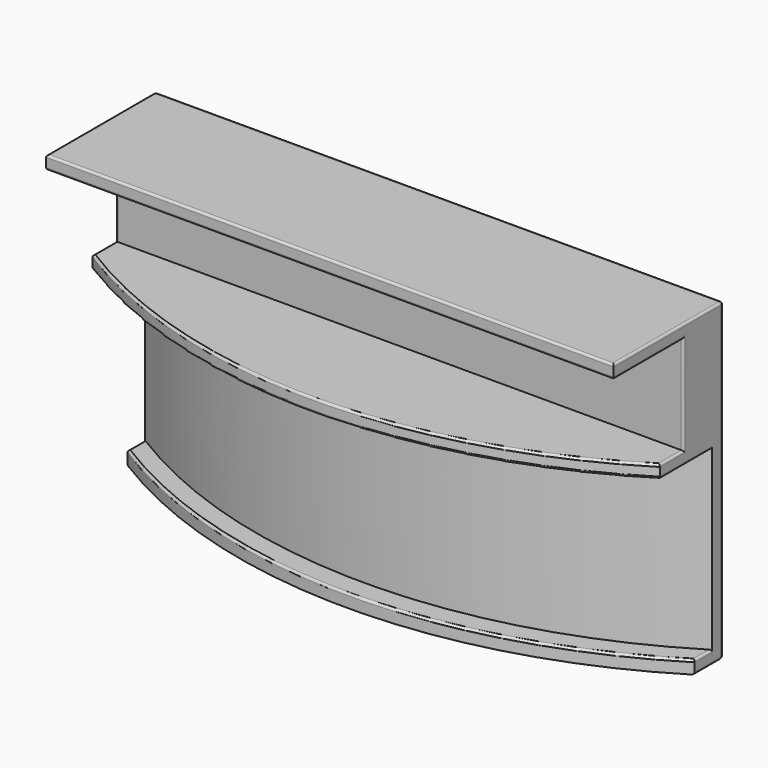
from build123d import *

# Parameters (mm, degrees)
BOX003_W      = 570
BOX003_H      = 100
BOX003_DEPTH  = 22.5
TUBE003_R     = 250
TUBE003_R_2   = 122.5
TUBE003_DEPTH = 37.5
TUBE002_R     = 250
TUBE002_R_2   = 122.5
TUBE002_DEPTH = 37.5
TUBE001_R     = 250
TUBE001_R_2   = 122.5
TUBE001_DEPTH = 40.5
BOX001_W      = 570
BOX001_H      = 100
BOX001_DEPTH  = 22.5
BOX_W         = 130
BOX_H         = 70
BOX_DEPTH     = 72
FILLET_R      = 1
FILLET001_R   = 0.5
FILLET002_R   = 0.5
FILLET003_R   = 0.5


with BuildPart() as sphere:
    # Sphere → Sphere (revolve)
    with BuildSketch(Plane(origin=(-0.01, -10.37, -8.39), x_dir=(1, 0, 0), z_dir=(0, -1, 0))):
        with BuildLine():
            ThreePointArc((0, -110), (110, 0), (0, 110))
            Line((0, 110), (0, -110))
        make_face()
    revolve(axis=Axis((-0.01, -10.37, -8.39), (0, 0, 1)))


with BuildPart() as box003:
    # Box003 → Box003 (new body)
    with BuildSketch(Plane(origin=(-285.31, -232.1, 44.4), x_dir=(1, 0, 0), z_dir=(0, 0, 1))):
        with Locations((285, 50)):
            Rectangle(BOX003_W, BOX003_H)
    extrude(amount=BOX003_DEPTH)


with BuildPart() as tube003:
    # Tube003 → Tube003 (new body)
    with BuildSketch(Plane(origin=(0, -15, 10), x_dir=(1, 0, 0), z_dir=(0, 0, 1))):
        Circle(TUBE003_R)
        Circle(TUBE003_R_2, mode=Mode.SUBTRACT)
    extrude(amount=TUBE003_DEPTH)


with BuildPart() as tube002:
    # Tube002 → Tube002 (new body)
    with BuildSketch(Plane(origin=(0, -5, -10), x_dir=(1, 0, 0), z_dir=(0, 0, 1))):
        Circle(TUBE002_R)
        Circle(TUBE002_R_2, mode=Mode.SUBTRACT)
    extrude(amount=TUBE002_DEPTH)


with BuildPart() as tube001:
    # Tube001 → Tube001 (new body)
    with BuildSketch(Plane.XY.offset(-3)):
        Circle(TUBE001_R)
        Circle(TUBE001_R_2, mode=Mode.SUBTRACT)
    extrude(amount=TUBE001_DEPTH)


with BuildPart() as box001:
    # Box001 → Box001 (new body)
    with BuildSketch(Plane(origin=(-285.31, -212.1, 40.46), x_dir=(1, 0, 0), z_dir=(0, 0, 1))):
        with Locations((285, 50)):
            Rectangle(BOX001_W, BOX001_H)
    extrude(amount=BOX001_DEPTH)


with BuildPart() as fillet003:
    # Box → Box (new body)
    with BuildSketch(Plane(origin=(-65.03, -170.42, -6), x_dir=(1, 0, 0), z_dir=(0, 0, 1))):
        with Locations((65, 35)):
            Rectangle(BOX_W, BOX_H)
    extrude(amount=BOX_DEPTH)

    # Cut: cut Box001
    add(box001.part, mode=Mode.SUBTRACT)

    # Cut001: cut Tube001
    add(tube001.part, mode=Mode.SUBTRACT)

    # Cut002: cut Tube002
    add(tube002.part, mode=Mode.SUBTRACT)

    # Cut003: cut Tube003
    add(tube003.part, mode=Mode.SUBTRACT)

    # Cut004: cut Box003
    add(box003.part, mode=Mode.SUBTRACT)

    # Cut005: cut Sphere
    add(sphere.part, mode=Mode.SUBTRACT)

    # Fillet
    fillet_edges = [fillet003.edges().sort_by_distance(p)[0] for p in [
        (-65.03, -100.42, 30),
        (-0.03, -100.42, 66),
        (-64.084558, -100.42, -6),
        (64.044558, -100.42, -6),
        (64.97, -100.42, 30),
        (-0.01, -120.344033, -6),
    ]]
    fillet(fillet_edges, radius=FILLET_R)

    # Fillet001
    fillet001_edges = [fillet003.edges().sort_by_distance(p)[0] for p in [
        (-65.03, -105.117006, -6),
        (64.97, -105.135786, -6),
    ]]
    fillet(fillet001_edges, radius=FILLET001_R)

    # Fillet002
    fillet002_edges = [fillet003.edges().sort_by_distance(p)[0] for p in [
        (-65.03, -111.314012, 37.5),
        (-65.03, -106.314012, -3),
        (-0.035393, -127.499995, -3),
        (64.97, -106.351572, -3),
        (64.97, -111.351572, 37.5),
        (-0.035393, -137.499995, 37.5),
    ]]
    fillet(fillet002_edges, radius=FILLET002_R)

    # Fillet003
    fillet003_edges = [fillet003.edges().sort_by_distance(p)[0] for p in [
        (-65.03, -116.76, 66),
        (-65.03, -122.1, 62.96),
        (-65.03, -112.1, 51.71),
        (-65.03, -115.457006, 40.46),
        (-0.03, -132.1, 66),
        (64.97, -116.76, 66),
        (-0.03, -132.1, 62.96),
        (64.97, -122.1, 62.96),
        (-0.035393, -137.499995, 40.46),
        (64.97, -112.1, 51.71),
        (64.97, -115.475786, 40.46),
    ]]
    fillet(fillet003_edges, radius=FILLET003_R)


solid = fillet003.part
